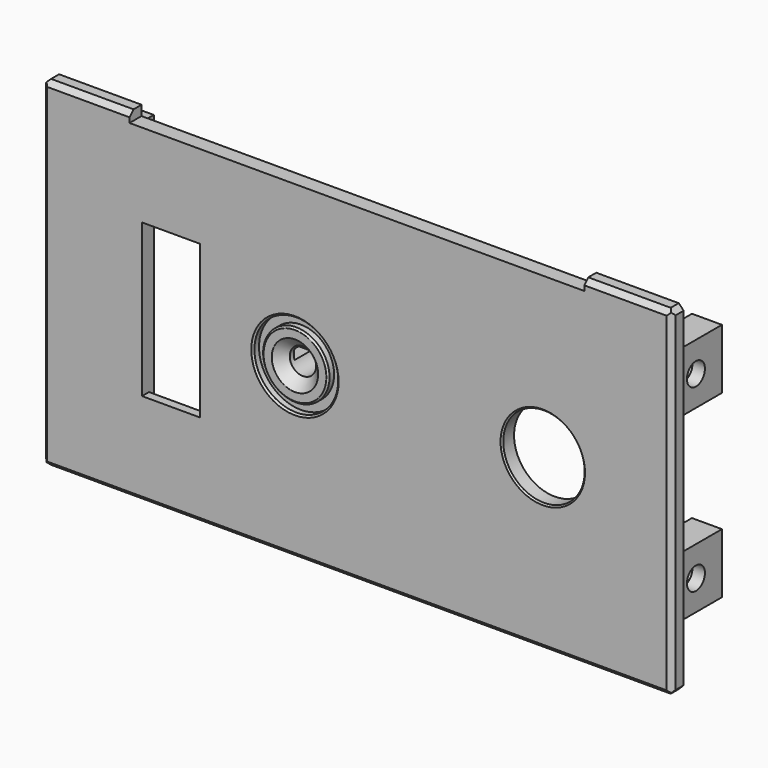
from build123d import *

# Parameters (mm, degrees)
SKETCH011_W     = 126
SKETCH011_H     = 68
PAD006_DEPTH    = 3
SKETCH012_W     = 6
SKETCH012_H     = 12
PAD007_DEPTH    = 13.5
SKETCH013_R     = 2.25
POCKET004_DEPTH = 122.851
POCKET005_DEPTH = 3.5
CHAMFER004_SIZE = 1
CHAMFER005_SIZE = 1
CHAMFER008_SIZE = 1
SKETCH024_R     = 2.64
SKETCH024_R_2   = 8.15
SKETCH024_W     = 7.05
SKETCH024_H     = 19.25
POCKET012_DEPTH = 16.501
POCKET013_DEPTH = 1
CHAMFER010_SIZE = 2
SKETCH026_R     = 8.39
SKETCH026_R_2   = 6.64
POCKET014_DEPTH = 1.5
CHAMFER011_SIZE = 0.35
CHAMFER012_SIZE = 0.3
SKETCH030_R     = 5.14
SKETCH030_R_2   = 2.64
PAD012_DEPTH    = 4
SKETCH031_W     = 10.28
SKETCH031_H     = 2
POCKET016_DEPTH = 4
PAD016_DEPTH    = 4
FILLET004_R     = 0.1
SKETCH053_W     = 91
SKETCH053_H     = 2
POCKET028_DEPTH = 16.501
SKETCH054_W     = 11.6
SKETCH054_H     = 30.6
POCKET029_DEPTH = 16.501
SKETCH055_W     = 11.6
SKETCH055_H     = 36.6
POCKET030_DEPTH = 1.25


with BuildPart() as part:
    # Sketch011 → Pad006 (new body)
    with BuildSketch(Plane.XZ):
        with Locations((0, 34)):
            Rectangle(SKETCH011_W, SKETCH011_H)
    extrude(amount=PAD006_DEPTH)

    # Sketch012 (on Face5 of Pad006) → Pad007 (join)
    with BuildSketch(Plane(origin=(0, 0, 0), x_dir=(1, 0, 0), z_dir=(0, 1, 0))):
        with Locations((-56.85, -16)):
            Rectangle(SKETCH012_W, SKETCH012_H)
        with Locations((-56.85, -52)):
            Rectangle(SKETCH012_W, SKETCH012_H)
    pad007 = extrude(amount=PAD007_DEPTH)

    # Mirrored002: Pad007 across YZ
    add(pad007.mirror(Plane.YZ))

    # Sketch013 (on Face22 of Mirrored002) → Pocket004 (cut, through all)
    with BuildSketch(Plane(origin=(59.85, 0, 0), x_dir=(0, 0, 1), z_dir=(1, 0, 0))):
        with Locations((16, -7)):
            Circle(SKETCH013_R)
        with Locations((52, -7)):
            Circle(SKETCH013_R)
    extrude(amount=-POCKET004_DEPTH, mode=Mode.SUBTRACT)

    # Sketch014 (on Face10 of Pocket004) → Pocket005 (cut)
    with BuildSketch(Plane(origin=(-53.85, 0, 0), x_dir=(0, 0, 1), z_dir=(1, 0, 0))):
        Polygon((19.5, -9.020726), (19.5, -4.979274), (16, -2.958548), (12.5, -4.979274), (12.5, -9.020726), (16, -11.041452), align=None)
        Polygon((55.5, -9.020726), (55.5, -4.979274), (52, -2.958548), (48.5, -4.979274), (48.5, -9.020726), (52, -11.041452), align=None)
    pocket005 = extrude(amount=-POCKET005_DEPTH, mode=Mode.SUBTRACT)

    # Chamfer004
    chamfer004_edges = [part.edges().sort_by_distance(p)[0] for p in [
        (0, -3, 68),
        (63, -3, 34),
        (0, -3, 0),
        (-63, -3, 34),
    ]]
    chamfer(chamfer004_edges, length=CHAMFER004_SIZE)

    # Chamfer005
    chamfer005_edges = [part.edges().sort_by_distance(p)[0] for p in [
        (-63, -1, 68),
        (63, -1, 68),
    ]]
    chamfer(chamfer005_edges, length=CHAMFER005_SIZE)

    # Chamfer008
    chamfer008_edges = [part.edges().sort_by_distance(p)[0] for p in [
        (63, -1, 0),
        (-63, -1, 0),
    ]]
    chamfer(chamfer008_edges, length=CHAMFER008_SIZE)

    # Mirrored005: Pocket005 across YZ
    add(pocket005.mirror(Plane.YZ), mode=Mode.SUBTRACT)

    # Sketch024 (on Face62 of Mirrored005) → Pocket012 (cut, through all)
    with BuildSketch(Plane.XZ.offset(3)):
        with Locations((-12.4, 34)):
            Circle(SKETCH024_R)
        with Locations((37.2, 34)):
            Circle(SKETCH024_R_2)
        with Locations((-37.2, 34)):
            Rectangle(SKETCH024_W, SKETCH024_H)
    extrude(amount=-POCKET012_DEPTH, mode=Mode.SUBTRACT)

    # Sketch025 (on Face1 of Pocket012) → Pocket013 (cut)
    with BuildSketch(Plane(origin=(0, 0, 0), x_dir=(1, 0, 0), z_dir=(0, 1, 0))):
        Polygon((-40.725, -20.375), (-33.675, -20.375), (-33.675, -43.625), (-33.675, -47.625), (-40.725, -47.625), (-40.725, -24.375), align=None)
    extrude(amount=-POCKET013_DEPTH, mode=Mode.SUBTRACT)

    # Chamfer010
    chamfer010_edges = [part.edges().sort_by_distance(p)[0] for p in [
        (-15.04, -3, 34),
    ]]
    chamfer(chamfer010_edges, length=CHAMFER010_SIZE)

    # Sketch026 (on Face4 of Chamfer010) → Pocket014 (cut)
    with BuildSketch(Plane.XZ.offset(3)):
        with Locations((-12.4, 34)):
            Circle(SKETCH026_R)
        with Locations((-12.4, 34)):
            Circle(SKETCH026_R_2, mode=Mode.SUBTRACT)
    extrude(amount=-POCKET014_DEPTH, mode=Mode.SUBTRACT)

    # Chamfer011
    chamfer011_edges = [part.edges().sort_by_distance(p)[0] for p in [
        (-19.04, -3, 34),
        (-20.79, -3, 34),
    ]]
    chamfer(chamfer011_edges, length=CHAMFER011_SIZE)

    # Chamfer012
    chamfer012_edges = [part.edges().sort_by_distance(p)[0] for p in [
        (-37.2, -3, 24.375),
        (-40.725, -3, 34),
        (-33.675, -3, 34),
        (-37.2, -3, 43.625),
        (29.05, -3, 34),
    ]]
    chamfer(chamfer012_edges, length=CHAMFER012_SIZE)

    # Sketch030 (on Face3 of Chamfer012) → Pad012 (join)
    with BuildSketch(Plane(origin=(0, 0, 0), x_dir=(1, 0, 0), z_dir=(0, 1, 0))):
        with Locations((-12.4, -34)):
            Circle(SKETCH030_R)
        with Locations((-12.4, -34)):
            Circle(SKETCH030_R_2, mode=Mode.SUBTRACT)
    extrude(amount=PAD012_DEPTH)

    # Sketch031 (on Face83 of Pad012) → Pocket016 (cut)
    with BuildSketch(Plane(origin=(0, 4, 0), x_dir=(1, 0, 0), z_dir=(0, 1, 0))):
        with Locations((-12.4, -34)):
            Rectangle(SKETCH031_W, SKETCH031_H)
    extrude(amount=-POCKET016_DEPTH, mode=Mode.SUBTRACT)

    # Sketch035 (on Face3 of Pocket016) → Pad016 (join)
    with BuildSketch(Plane(origin=(0, 0, 0), x_dir=(1, 0, 0), z_dir=(0, 1, 0))):
        with BuildLine():
            ThreePointArc((-40, -53.5), (-41.5, -55), (-40, -56.5))
            Line((-40, -56.5), (40, -56.5))
            ThreePointArc((40, -56.5), (41.5, -55), (40, -53.5))
            Line((-40, -53.5), (40, -53.5))
        make_face()
        with BuildLine():
            ThreePointArc((-40, -10.5), (-41.5, -12), (-40, -13.5))
            Line((-40, -13.5), (40, -13.5))
            ThreePointArc((40, -13.5), (41.5, -12), (40, -10.5))
            Line((-40, -10.5), (40, -10.5))
        make_face()
    extrude(amount=PAD016_DEPTH)

    # Fillet004
    fillet004_edges = [part.edges().sort_by_distance(p)[0] for p in [
        (-18.69, -3, 34),
        (-17.04, -3, 34),
    ]]
    fillet(fillet004_edges, radius=FILLET004_R)

    # Sketch053 (on Face111 of Fillet004) → Pocket028 (cut, through all)
    with BuildSketch(Plane.XZ.offset(3)):
        with Locations((0, 67)):
            Rectangle(SKETCH053_W, SKETCH053_H)
    extrude(amount=-POCKET028_DEPTH, mode=Mode.SUBTRACT)

    # Sketch054 (on Face75 of Pocket028) → Pocket029 (cut, through all)
    with BuildSketch(Plane.XZ.offset(3)):
        with Locations((-37.2, 34)):
            Rectangle(SKETCH054_W, SKETCH054_H)
    extrude(amount=-POCKET029_DEPTH, mode=Mode.SUBTRACT)

    # Sketch055 (on Face21 of Pocket029) → Pocket030 (cut)
    with BuildSketch(Plane(origin=(0, 0, 0), x_dir=(1, 0, 0), z_dir=(0, 1, 0))):
        with Locations((-37.2, -34)):
            Rectangle(SKETCH055_W, SKETCH055_H)
    extrude(amount=-POCKET030_DEPTH, mode=Mode.SUBTRACT)


with BuildPart() as part_1:
    # Body004 placement: moved
    add(part.part.moved(Location((0, -66.95, 0))))


solid = part_1.part
